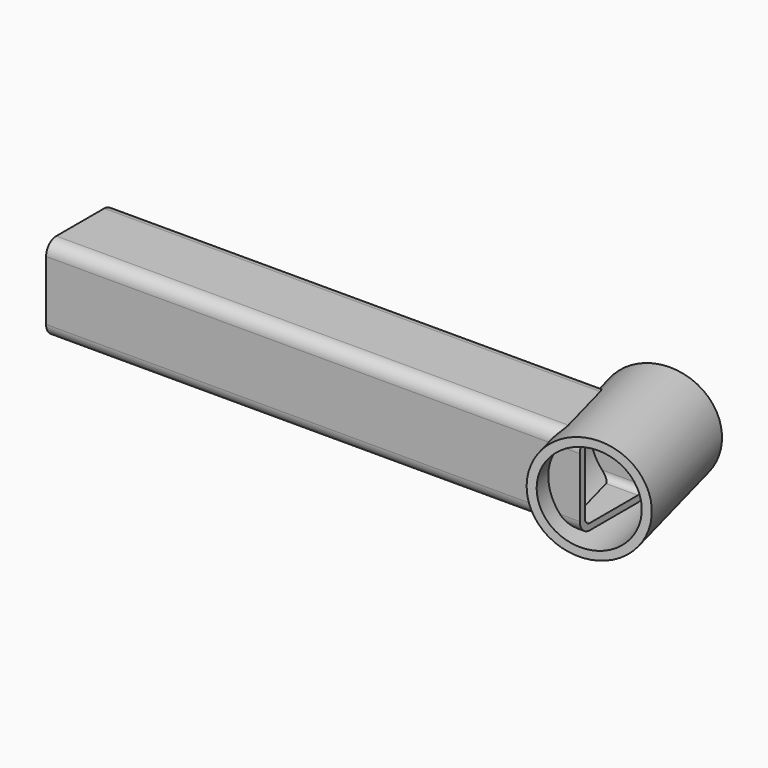
from build123d import *

# Parameters (mm, degrees)
F0_R     = 25
F0_R_2   = 21
F1_DEPTH = 32
F2_ANGLE = 165
F4_DEPTH = 250


with BuildPart() as f1:
    # F0 (on Front) → F1 (new body, symmetric)
    with BuildSketch(Plane.XZ):
        Circle(F0_R)
        Circle(F0_R_2, mode=Mode.SUBTRACT)
    extrude(amount=F1_DEPTH, both=True)


with BuildPart() as f1_1:
    # F2: moved
    add(f1.part.rotate(Axis((0, 0, -29.1226431727), (0, 0, -1)), F2_ANGLE))

    # F3 (on Right) → F4 (join)
    with BuildSketch(Plane.YZ):
        with BuildLine():
            ThreePointArc((-26.0919821262, -14), (-24.3346228134, -18.2426406871), (-20.0919821262, -20))
            Line((-20.0919821262, -20), (7.9080178738, -20))
            ThreePointArc((7.9080178738, -20), (12.1506585609, -18.2426406871), (13.9080178738, -14))
            Line((13.9080178738, -14), (13.9080178738, 14))
            ThreePointArc((13.9080178738, 14), (12.1506585609, 18.2426406871), (7.9080178738, 20))
            Line((7.9080178738, 20), (-20.0919821262, 20))
            ThreePointArc((-20.0919821262, 20), (-24.3346228134, 18.2426406871), (-26.0919821262, 14))
            Line((-26.0919821262, 14), (-26.0919821262, -14))
        make_face()
        with BuildLine():
            Line((7.9080178738, -17), (-20.0919821262, -17))
            ThreePointArc((-20.0919821262, -17), (-22.2133024698, -16.1213203436), (-23.0919821262, -14))
            Line((-23.0919821262, -14), (-23.0919821262, 14))
            ThreePointArc((-23.0919821262, 14), (-22.2133024698, 16.1213203436), (-20.0919821262, 17))
            Line((-20.0919821262, 17), (7.9080178738, 17))
            ThreePointArc((7.9080178738, 17), (10.0293382173, 16.1213203436), (10.9080178738, 14))
            Line((10.9080178738, 14), (10.9080178738, -14))
            ThreePointArc((10.9080178738, -14), (10.0293382173, -16.1213203436), (7.9080178738, -17))
        make_face(mode=Mode.SUBTRACT)
    extrude(amount=-F4_DEPTH)


solid = f1_1.part
